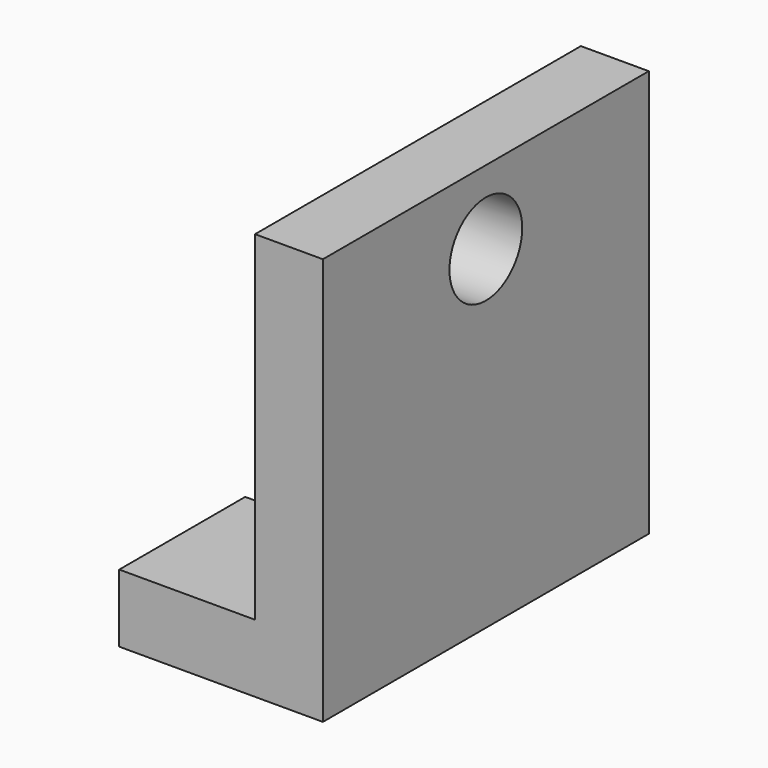
from build123d import *

# Parameters (mm, degrees)
F1_DEPTH = 76.2
F2_R     = 17.019042
F3_DEPTH = 38.1
F5_DEPTH = 25.4


with BuildPart() as f1:
    # F0 (on Front) → F1 (new body, symmetric)
    with BuildSketch(Plane.XZ):
        Polygon((0, 0), (0, 152.4), (-25.4, 152.4), (-25.4, 25.4), (-76.2, 25.4), (-76.2, 0), align=None)
    extrude(amount=F1_DEPTH, both=True)

    # F2 (on face) → F3 (cut)
    with BuildSketch(Plane.YZ):
        with Locations((0, 124.789342)):
            Circle(F2_R)
    extrude(amount=-F3_DEPTH, mode=Mode.SUBTRACT)

    # F4 (on face) → F5 (cut, symmetric)
    with BuildSketch(Plane.XY.offset(25.4)):
        with BuildLine():
            Line((-76.2, -17.294263), (-60.396418, -17.294263))
            ThreePointArc((-60.396418, -17.294263), (-52.772565, 0), (-60.396418, 17.294263))
            Line((-60.396418, 17.294263), (-76.2, 17.294263))
            Line((-76.2, 17.294263), (-76.2, -17.294263))
        make_face()
    extrude(amount=F5_DEPTH, both=True, mode=Mode.SUBTRACT)


solid = f1.part
